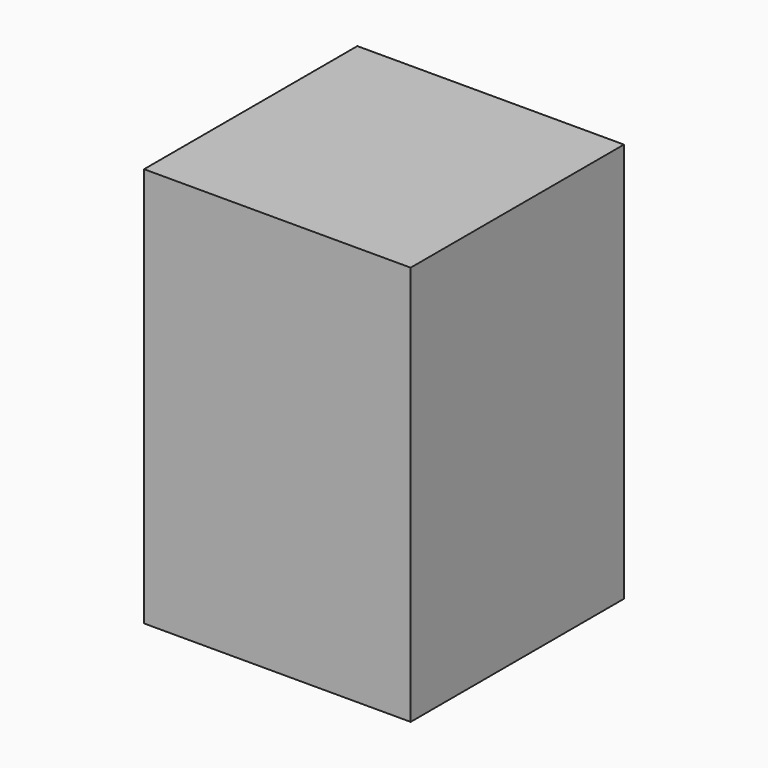
from build123d import *

# Parameters (mm, degrees)
F0_W     = 101.6
F0_H     = 101.6
F1_DEPTH = 152.4
F3_W     = 50.8
F3_H     = 50.8
F4_DEPTH = 76.2


with BuildPart() as f1:
    # F0 (on Top) → F1 (new body)
    with BuildSketch(Plane.XY):
        with Locations((0.5169101059, 6.4923027378)):
            Rectangle(F0_W, F0_H)
    extrude(amount=F1_DEPTH)


with BuildPart() as f4:
    # F3 (on Top) → F4 (new body)
    with BuildSketch(Plane.XY):
        with Locations((-5.2103567868, -1.4362401626)):
            Rectangle(F3_W, F3_H)
    extrude(amount=F4_DEPTH)


solid = f4.part
